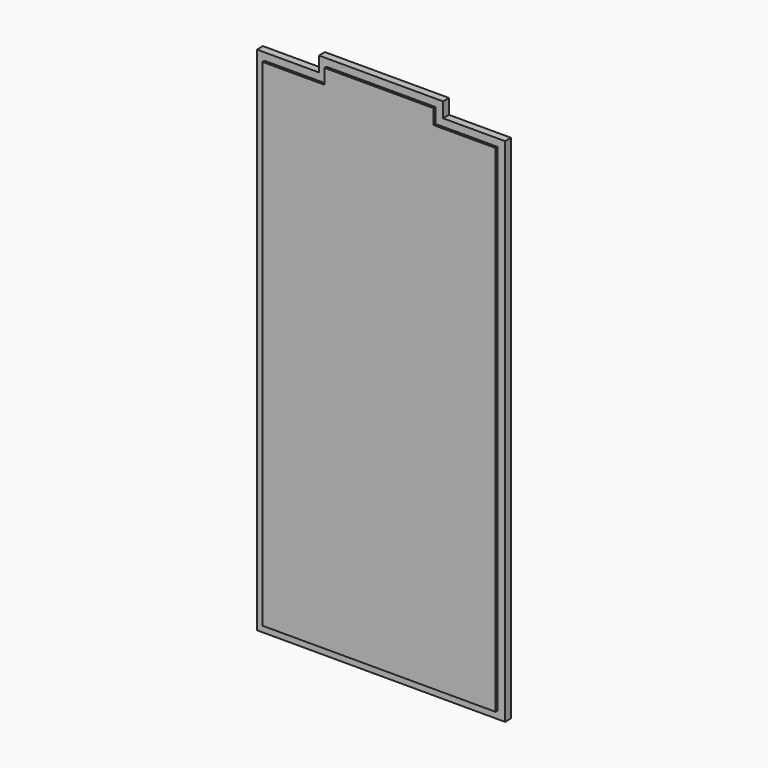
from build123d import *

# Parameters (mm, degrees)
F1_DEPTH = 12.7
F2_DEPTH = 9.525


with BuildPart() as f1:
    # F0 (on Front) → F1 (new body)
    with BuildSketch(Plane.XZ):
        Polygon((228.6, 663.575), (88.9, 663.575), (88.9, 644.525), (9.525, 644.525), (9.525, 9.525), (307.975, 9.525), (307.975, 644.525), (228.6, 644.525), align=None)
    extrude(amount=F1_DEPTH)

    # F0 (on Front) → F2 (join)
    with BuildSketch(Plane.XZ):
        Polygon((0, 654.05), (0, 0), (317.5, 0), (317.5, 654.05), (238.125, 654.05), (238.125, 673.1), (79.375, 673.1), (79.375, 654.05), align=None)
        Polygon((88.9, 644.525), (88.9, 663.575), (228.6, 663.575), (228.6, 644.525), (307.975, 644.525), (307.975, 9.525), (9.525, 9.525), (9.525, 644.525), align=None, mode=Mode.SUBTRACT)
    extrude(amount=F2_DEPTH)


solid = f1.part
